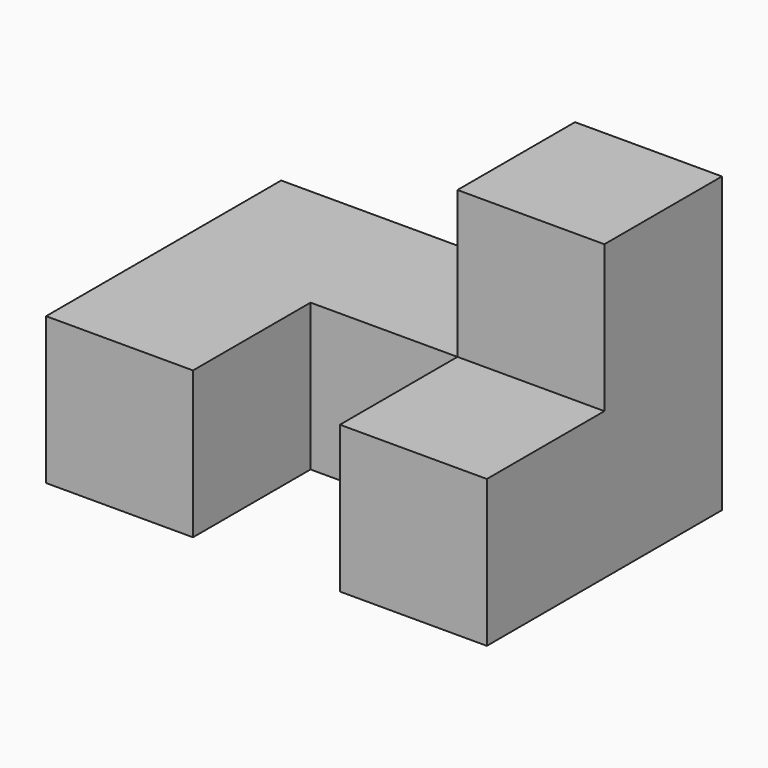
from build123d import *

# Parameters (mm, degrees)
F0_W     = 19.05
F0_H     = 19.05
F1_DEPTH = 19.05
F2_DEPTH = 38.1


with BuildPart() as f1:
    # F0 (on Top) → F1 (new body)
    with BuildSketch(Plane.XY):
        with Locations((-19.05, -9.525)):
            Rectangle(F0_W, F0_H)
        with Locations((-19.05, 9.525)):
            Rectangle(F0_W, F0_H)
        with Locations((0, 9.525)):
            Rectangle(F0_W, F0_H)
        with Locations((19.05, -9.525)):
            Rectangle(F0_W, F0_H)
        with Locations((19.05, 9.525)):
            Rectangle(F0_W, F0_H)
    extrude(amount=F1_DEPTH)

    # F0 (on Top) → F2 (join)
    with BuildSketch(Plane.XY):
        with Locations((19.05, 9.525)):
            Rectangle(F0_W, F0_H)
    extrude(amount=F2_DEPTH)


solid = f1.part
